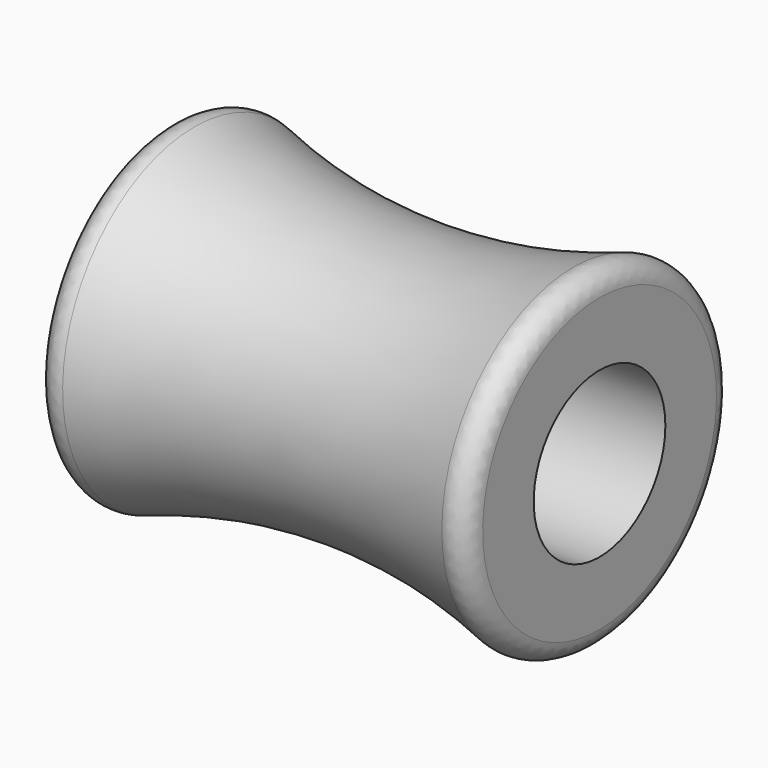
from build123d import *

# Parameters (mm, degrees)
F2_R = 0.5


with BuildPart() as f1:
    # F0 (on Top) → F1 (revolve)
    with BuildSketch(Plane.XY):
        with BuildLine():
            Line((-5.369555, 4.444714), (-5.369555, 2.1))
            Line((-5.369555, 2.1), (5.630445, 2.1))
            Line((5.630445, 2.1), (5.630445, 4.444714))
            ThreePointArc((5.630445, 4.444714), (0.130445, 3.4), (-5.369555, 4.444714))
        make_face()
    revolve(axis=Axis((-0.482609, 0, 0), (1, 0, 0)))

    # F2
    f2_edges = [f1.edges().sort_by_distance(p)[0] for p in [
        (5.630445, -4.444714, 0),
        (-5.369555, -4.444714, 0),
    ]]
    fillet(f2_edges, radius=F2_R)


solid = f1.part
